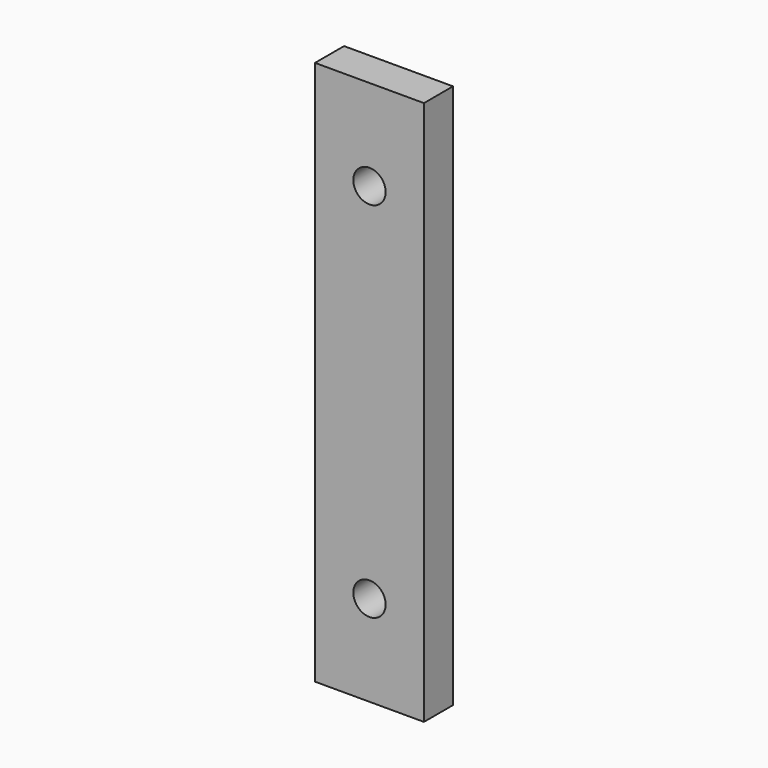
from build123d import *

# Parameters (mm, degrees)
F0_W     = 7.62
F0_H     = 38.1
F1_DEPTH = 2.54
F3_D     = 2.2606


with BuildPart() as f1:
    # F0 (on Front) → F1 (new body)
    with BuildSketch(Plane.XZ):
        with Locations((3.81, 19.05)):
            Rectangle(F0_W, F0_H)
    extrude(amount=F1_DEPTH)

    # F3 (through all)
    with Locations(Plane.XZ.offset(2.54)):
        with Locations((3.81, 31.75), (3.81, 6.35)):
            Hole(F3_D / 2)


solid = f1.part
